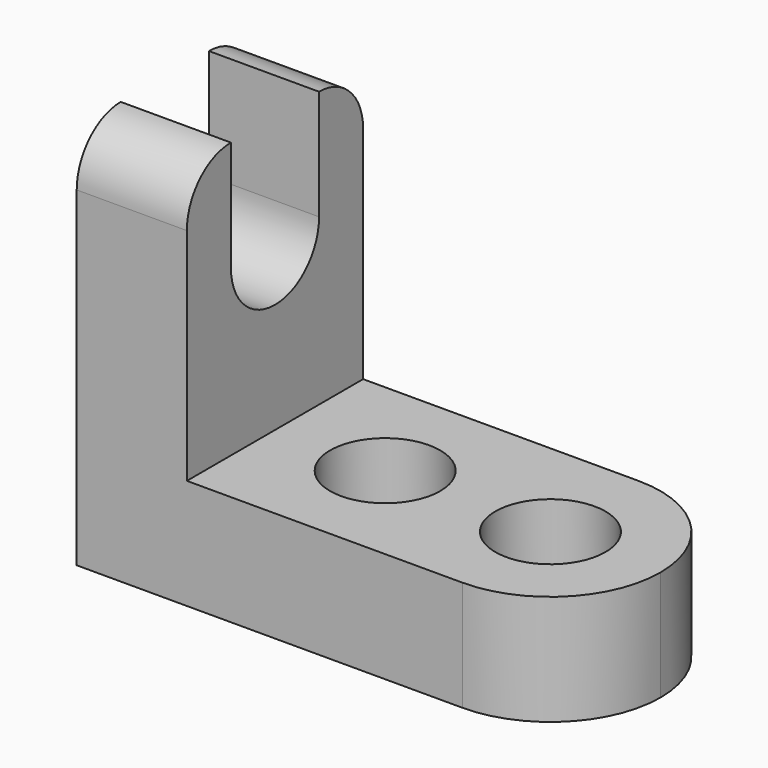
from build123d import *

# Parameters (mm, degrees)
F1_DEPTH = 25.4
F2_R     = 6.35
F3_DEPTH = 25.4
F5_DEPTH = 25.4
F7_DEPTH = 25.4


with BuildPart() as f1:
    # F0 (on Front) → F1 (new body)
    with BuildSketch(Plane.XZ):
        Polygon((0, 44.45), (0, 0), (57.15, 0), (57.15, 12.7), (12.7, 12.7), (12.7, 44.45), align=None)
    extrude(amount=F1_DEPTH)

    # F2 (on face) → F3 (cut)
    with BuildSketch(Plane.XY.offset(12.7)):
        with BuildLine():
            ThreePointArc((44.45, 0), (53.4302561211, -3.7197438789), (57.15, -12.7))
            Line((57.15, -12.7), (57.15, 0))
            Line((57.15, 0), (44.45, 0))
        make_face()
        with Locations((44.45, -12.7)):
            Circle(F2_R)
        with BuildLine():
            ThreePointArc((57.15, -12.7), (53.4302561211, -21.6802561211), (44.45, -25.4))
            Line((44.45, -25.4), (57.15, -25.4))
            Line((57.15, -25.4), (57.15, -12.7))
        make_face()
        with Locations((25.4, -12.7)):
            Circle(F2_R)
    extrude(amount=-F3_DEPTH, mode=Mode.SUBTRACT)

    # F4 (on face) → F5 (cut)
    with BuildSketch(Plane.YZ.offset(12.7)):
        with BuildLine():
            ThreePointArc((-19.05, 31.75), (-12.7, 38.1), (-6.35, 31.75))
            Line((-6.35, 31.75), (-6.35, 44.45))
            Line((-6.35, 44.45), (-19.05, 44.45))
            Line((-19.05, 44.45), (-19.05, 31.75))
        make_face()
        with BuildLine():
            ThreePointArc((-19.05, 31.75), (-12.7, 25.4), (-6.35, 31.75))
            ThreePointArc((-6.35, 31.75), (-12.7, 38.1), (-19.05, 31.75))
        make_face()
    extrude(amount=-F5_DEPTH, mode=Mode.SUBTRACT)

    # F6 (on face) → F7 (cut)
    with BuildSketch(Plane.YZ.offset(12.7)):
        with BuildLine():
            ThreePointArc((-25.4, 38.1), (-23.5401280605, 42.5901280605), (-19.05, 44.45))
            Line((-19.05, 44.45), (-25.4, 44.45))
            Line((-25.4, 44.45), (-25.4, 38.1))
        make_face()
        with BuildLine():
            Line((0, 44.45), (-6.35, 44.45))
            ThreePointArc((-6.35, 44.45), (-1.8598719395, 42.5901280605), (0, 38.1))
            Line((0, 38.1), (0, 44.45))
        make_face()
    extrude(amount=-F7_DEPTH, mode=Mode.SUBTRACT)


solid = f1.part
